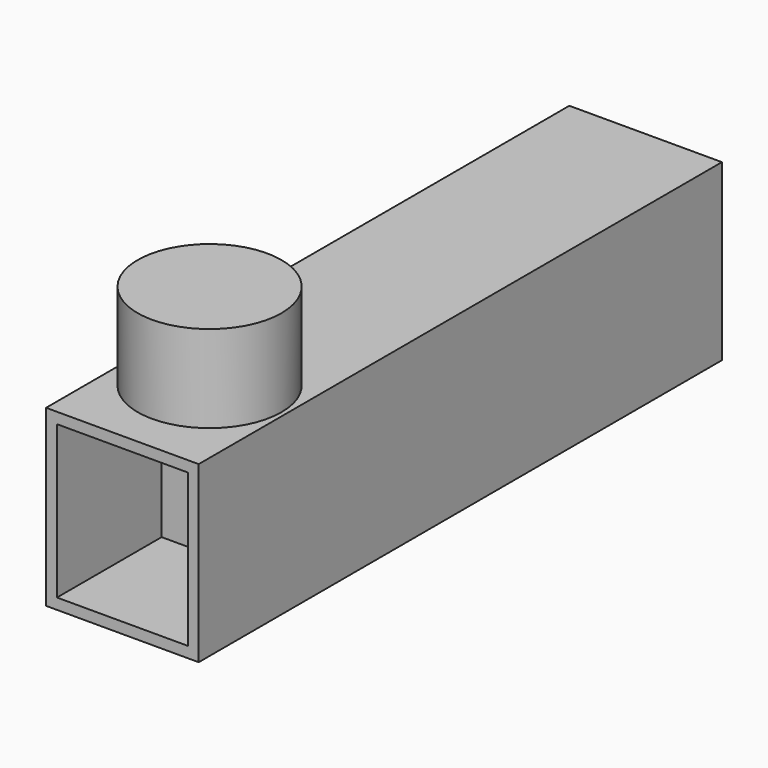
from build123d import *

# Parameters (mm, degrees)
SKETCH_W        = 3.5
SKETCH_H        = 15
PAD_DEPTH       = 4
SKETCH001_R     = 1.65
PAD001_DEPTH    = 6
POCKET_DEPTH    = 3
POCKET001_DEPTH = 15.001


with BuildPart() as part:
    # Sketch → Pad (new body)
    with BuildSketch(Plane.XY):
        with Locations((1.75, 7.5)):
            Rectangle(SKETCH_W, SKETCH_H)
    extrude(amount=PAD_DEPTH)

    # Sketch001 → Pad001 (join)
    with BuildSketch(Plane.XY):
        with Locations((1.75, 2.5)):
            Circle(SKETCH001_R)
    extrude(amount=PAD001_DEPTH)

    # Sketch002 (on Face1 of Pad001) → Pocket (cut)
    with BuildSketch(Plane.XZ):
        Polygon((3.25, 3.75), (3.25, 0.25), (0.25, 0.25), (0.25, 3.75), (1.75, 3.75), align=None)
    extrude(amount=-POCKET_DEPTH, mode=Mode.SUBTRACT)

    # Sketch003 → Pocket001 (cut, through all)
    with BuildSketch(Plane.XZ):
        Polygon((0.75, 3.75), (1.75, 3.75), (2.75, 3.75), (2.75, 2.25), (0.75, 2.25), align=None)
    extrude(amount=-POCKET001_DEPTH, mode=Mode.SUBTRACT)


solid = part.part
